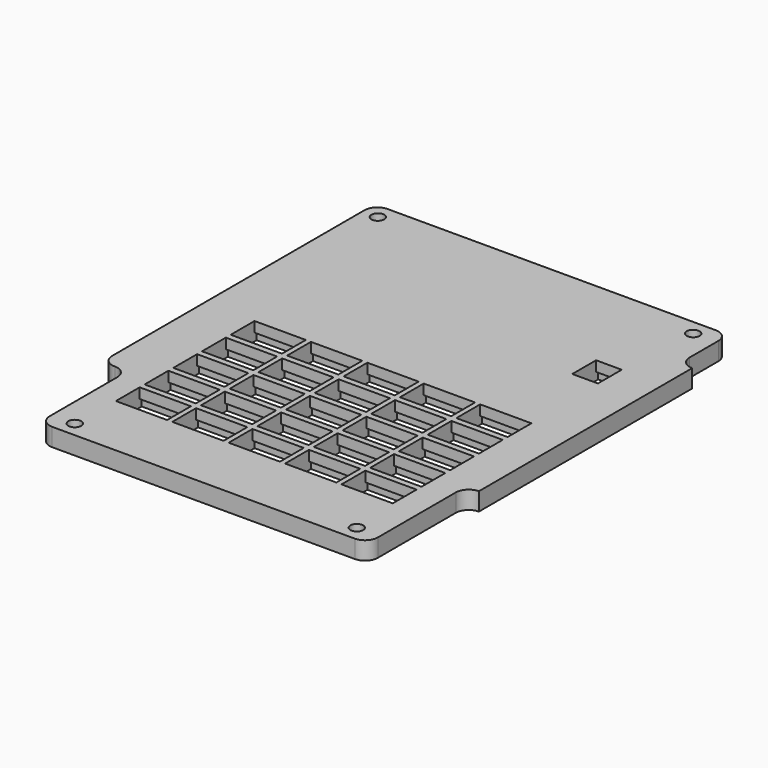
from build123d import *

# Parameters (mm, degrees)
PAD014_DEPTH                         = 3.5
SKETCH027_R                          = 1.25
POCKET012_DEPTH                      = 0.001
POCKET012_DEPTH_BACK                 = 3.501
SKETCH028_W                          = 10
SKETCH028_H                          = 5.8
POCKET013_DEPTH                      = 226.879822
POCKET013_DEPTH_BACK                 = 230.379822
SKETCH030_W                          = 10
SKETCH030_H                          = 6.8
POCKET015_DEPTH                      = 1.5
SKETCH028_LINEARPATTERN_2_W          = 10
SKETCH028_LINEARPATTERN_2_H          = 5.8
POCKET013_LINEARPATTERN_2_DEPTH      = 226.879822
POCKET013_LINEARPATTERN_2_DEPTH_BACK = 230.379822
SKETCH030_LINEARPATTERN_2_W          = 10
SKETCH030_LINEARPATTERN_2_H          = 6.8
POCKET015_LINEARPATTERN_2_DEPTH      = 1.5
SKETCH028_LINEARPATTERN_3_W          = 10
SKETCH028_LINEARPATTERN_3_H          = 5.8
POCKET013_LINEARPATTERN_3_DEPTH      = 226.879822
POCKET013_LINEARPATTERN_3_DEPTH_BACK = 230.379822
SKETCH030_LINEARPATTERN_3_W          = 10
SKETCH030_LINEARPATTERN_3_H          = 6.8
POCKET015_LINEARPATTERN_3_DEPTH      = 1.5
SKETCH028_LINEARPATTERN_4_W          = 10
SKETCH028_LINEARPATTERN_4_H          = 5.8
POCKET013_LINEARPATTERN_4_DEPTH      = 226.879822
POCKET013_LINEARPATTERN_4_DEPTH_BACK = 230.379822
SKETCH030_LINEARPATTERN_4_W          = 10
SKETCH030_LINEARPATTERN_4_H          = 6.8
POCKET015_LINEARPATTERN_4_DEPTH      = 1.5
SKETCH028_LINEARPATTERN_5_W          = 10
SKETCH028_LINEARPATTERN_5_H          = 5.8
POCKET013_LINEARPATTERN_5_DEPTH      = 226.879822
POCKET013_LINEARPATTERN_5_DEPTH_BACK = 230.379822
SKETCH030_LINEARPATTERN_5_W          = 10
SKETCH030_LINEARPATTERN_5_H          = 6.8
POCKET015_LINEARPATTERN_5_DEPTH      = 1.5
LINEARPATTERN001_COUNT               = 5
LINEARPATTERN001_PITCH               = 7
SKETCH029_W                          = 33
SKETCH029_H                          = 15
POCKET014_DEPTH                      = 1.5
SKETCH031_W                          = 5
SKETCH031_H                          = 5.8
POCKET018_DEPTH                      = 0.001
POCKET018_DEPTH_BACK                 = 3.501
SKETCH034_W                          = 5
SKETCH034_H                          = 6.8
POCKET019_DEPTH                      = 1.5
SKETCH043_W                          = 2
SKETCH043_H                          = 40
SKETCH043_W_2                        = 1.2
SKETCH043_H_2                        = 11.2
POCKET022_DEPTH                      = 2


with BuildPart() as part:
    # Sketch026 → Pad014 (new body)
    with BuildSketch(Plane.XY):
        with BuildLine():
            Line((-29.5, -64), (29.5, -64))
            ThreePointArc((29.5, -64), (31.267767, -63.267767), (32, -61.5))
            Line((32, -42.5), (32, -61.5))
            ThreePointArc((34.5, -40), (32.732233, -40.732233), (32, -42.5))
            Line((34.5, 12), (34.5, -40))
            ThreePointArc((32, 14.5), (32.732233, 12.732233), (34.5, 12))
            Line((32, 21.5), (32, 14.5))
            ThreePointArc((32, 21.5), (31.267767, 23.267767), (29.5, 24))
            Line((29.5, 24), (-34.5, 24))
            ThreePointArc((-34.5, 24), (-36.267767, 23.267767), (-37, 21.5))
            Line((-37, 21.5), (-37, -40))
            ThreePointArc((-37, -40), (-36.267767, -41.767767), (-34.5, -42.5))
            ThreePointArc((-32, -45), (-32.732233, -43.232233), (-34.5, -42.5))
            Line((-32, -45), (-32, -61.5))
            ThreePointArc((-32, -61.5), (-31.267767, -63.267767), (-29.5, -64))
        make_face()
    extrude(amount=PAD014_DEPTH)

    # Sketch027 → Pocket012 (cut, two sides)
    with BuildSketch(Plane.XY) as pocket012_sk:
        with Locations((-34, 21)):
            Circle(SKETCH027_R)
        with Locations((27.5, 21)):
            Circle(SKETCH027_R)
        with Locations((27.5, -61)):
            Circle(SKETCH027_R)
        with Locations((-27.5, -61)):
            Circle(SKETCH027_R)
    extrude(amount=-POCKET012_DEPTH, mode=Mode.SUBTRACT)
    extrude(pocket012_sk.sketch, amount=POCKET012_DEPTH_BACK, mode=Mode.SUBTRACT)

    # Sketch028 → Pocket013 (cut, two sides)
    with BuildSketch(Plane.XY) as pocket013_sk:
        with Locations((-22.25, -20.4)):
            Rectangle(SKETCH028_W, SKETCH028_H)
    pocket013 = extrude(amount=-POCKET013_DEPTH, mode=Mode.SUBTRACT) + extrude(pocket013_sk.sketch, amount=POCKET013_DEPTH_BACK, mode=Mode.SUBTRACT)

    # Sketch030 → Pocket015 (cut)
    with BuildSketch(Plane.XY):
        with Locations((-22.25, -20.4)):
            Rectangle(SKETCH030_W, SKETCH030_H)
    pocket015 = extrude(amount=POCKET015_DEPTH, mode=Mode.SUBTRACT)

    # Sketch028 LinearPattern 2 → Pocket013 LinearPattern 2 (cut, two sides)
    with BuildSketch(Plane(origin=(11, 0, 0), x_dir=(1, 0, 0), z_dir=(0, 0, 1))) as pocket013_linearpattern_2_sk:
        with Locations((-22.25, -20.4)):
            Rectangle(SKETCH028_LINEARPATTERN_2_W, SKETCH028_LINEARPATTERN_2_H)
    pocket013_linearpattern_2 = extrude(amount=-POCKET013_LINEARPATTERN_2_DEPTH, mode=Mode.SUBTRACT) + extrude(pocket013_linearpattern_2_sk.sketch, amount=POCKET013_LINEARPATTERN_2_DEPTH_BACK, mode=Mode.SUBTRACT)

    # Sketch030 LinearPattern 2 → Pocket015 LinearPattern 2 (cut)
    with BuildSketch(Plane(origin=(11, 0, 0), x_dir=(1, 0, 0), z_dir=(0, 0, 1))):
        with Locations((-22.25, -20.4)):
            Rectangle(SKETCH030_LINEARPATTERN_2_W, SKETCH030_LINEARPATTERN_2_H)
    pocket015_linearpattern_2 = extrude(amount=POCKET015_LINEARPATTERN_2_DEPTH, mode=Mode.SUBTRACT)

    # Sketch028 LinearPattern 3 → Pocket013 LinearPattern 3 (cut, two sides)
    with BuildSketch(Plane(origin=(22, 0, 0), x_dir=(1, 0, 0), z_dir=(0, 0, 1))) as pocket013_linearpattern_3_sk:
        with Locations((-22.25, -20.4)):
            Rectangle(SKETCH028_LINEARPATTERN_3_W, SKETCH028_LINEARPATTERN_3_H)
    pocket013_linearpattern_3 = extrude(amount=-POCKET013_LINEARPATTERN_3_DEPTH, mode=Mode.SUBTRACT) + extrude(pocket013_linearpattern_3_sk.sketch, amount=POCKET013_LINEARPATTERN_3_DEPTH_BACK, mode=Mode.SUBTRACT)

    # Sketch030 LinearPattern 3 → Pocket015 LinearPattern 3 (cut)
    with BuildSketch(Plane(origin=(22, 0, 0), x_dir=(1, 0, 0), z_dir=(0, 0, 1))):
        with Locations((-22.25, -20.4)):
            Rectangle(SKETCH030_LINEARPATTERN_3_W, SKETCH030_LINEARPATTERN_3_H)
    pocket015_linearpattern_3 = extrude(amount=POCKET015_LINEARPATTERN_3_DEPTH, mode=Mode.SUBTRACT)

    # Sketch028 LinearPattern 4 → Pocket013 LinearPattern 4 (cut, two sides)
    with BuildSketch(Plane(origin=(33, 0, 0), x_dir=(1, 0, 0), z_dir=(0, 0, 1))) as pocket013_linearpattern_4_sk:
        with Locations((-22.25, -20.4)):
            Rectangle(SKETCH028_LINEARPATTERN_4_W, SKETCH028_LINEARPATTERN_4_H)
    pocket013_linearpattern_4 = extrude(amount=-POCKET013_LINEARPATTERN_4_DEPTH, mode=Mode.SUBTRACT) + extrude(pocket013_linearpattern_4_sk.sketch, amount=POCKET013_LINEARPATTERN_4_DEPTH_BACK, mode=Mode.SUBTRACT)

    # Sketch030 LinearPattern 4 → Pocket015 LinearPattern 4 (cut)
    with BuildSketch(Plane(origin=(33, 0, 0), x_dir=(1, 0, 0), z_dir=(0, 0, 1))):
        with Locations((-22.25, -20.4)):
            Rectangle(SKETCH030_LINEARPATTERN_4_W, SKETCH030_LINEARPATTERN_4_H)
    pocket015_linearpattern_4 = extrude(amount=POCKET015_LINEARPATTERN_4_DEPTH, mode=Mode.SUBTRACT)

    # Sketch028 LinearPattern 5 → Pocket013 LinearPattern 5 (cut, two sides)
    with BuildSketch(Plane(origin=(44, 0, 0), x_dir=(1, 0, 0), z_dir=(0, 0, 1))) as pocket013_linearpattern_5_sk:
        with Locations((-22.25, -20.4)):
            Rectangle(SKETCH028_LINEARPATTERN_5_W, SKETCH028_LINEARPATTERN_5_H)
    pocket013_linearpattern_5 = extrude(amount=-POCKET013_LINEARPATTERN_5_DEPTH, mode=Mode.SUBTRACT) + extrude(pocket013_linearpattern_5_sk.sketch, amount=POCKET013_LINEARPATTERN_5_DEPTH_BACK, mode=Mode.SUBTRACT)

    # Sketch030 LinearPattern 5 → Pocket015 LinearPattern 5 (cut)
    with BuildSketch(Plane(origin=(44, 0, 0), x_dir=(1, 0, 0), z_dir=(0, 0, 1))):
        with Locations((-22.25, -20.4)):
            Rectangle(SKETCH030_LINEARPATTERN_5_W, SKETCH030_LINEARPATTERN_5_H)
    pocket015_linearpattern_5 = extrude(amount=POCKET015_LINEARPATTERN_5_DEPTH, mode=Mode.SUBTRACT)

    # LinearPattern001: Pocket013, Pocket015, Pocket013 LinearPattern 2, Pocket015 LinearPattern 2, Pocket013 LinearPattern 3, Pocket015 LinearPattern 3, Pocket013 LinearPattern 4, Pocket015 LinearPattern 4, Pocket013 LinearPattern 5, Pocket015 LinearPattern 5 ×5
    with Locations(*[(0, -i * LINEARPATTERN001_PITCH, 0) for i in range(1, LINEARPATTERN001_COUNT)]):
        add(pocket013, mode=Mode.SUBTRACT)
        add(pocket015, mode=Mode.SUBTRACT)
        add(pocket013_linearpattern_2, mode=Mode.SUBTRACT)
        add(pocket015_linearpattern_2, mode=Mode.SUBTRACT)
        add(pocket013_linearpattern_3, mode=Mode.SUBTRACT)
        add(pocket015_linearpattern_3, mode=Mode.SUBTRACT)
        add(pocket013_linearpattern_4, mode=Mode.SUBTRACT)
        add(pocket015_linearpattern_4, mode=Mode.SUBTRACT)
        add(pocket013_linearpattern_5, mode=Mode.SUBTRACT)
        add(pocket015_linearpattern_5, mode=Mode.SUBTRACT)

    # Sketch029 → Pocket014 (cut)
    with BuildSketch(Plane.XY):
        with Locations((0, -7.5)):
            Rectangle(SKETCH029_W, SKETCH029_H)
    extrude(amount=POCKET014_DEPTH, mode=Mode.SUBTRACT)

    # Sketch031 → Pocket018 (cut, two sides)
    with BuildSketch(Plane.XY) as pocket018_sk:
        with Locations((23.95, 1.9814)):
            Rectangle(SKETCH031_W, SKETCH031_H)
    extrude(amount=-POCKET018_DEPTH, mode=Mode.SUBTRACT)
    extrude(pocket018_sk.sketch, amount=POCKET018_DEPTH_BACK, mode=Mode.SUBTRACT)

    # Sketch034 → Pocket019 (cut)
    with BuildSketch(Plane.XY):
        with Locations((23.95, 1.9814)):
            Rectangle(SKETCH034_W, SKETCH034_H)
    extrude(amount=POCKET019_DEPTH, mode=Mode.SUBTRACT)

    # Sketch043 → Pocket022 (cut)
    with BuildSketch(Plane.XY):
        with Locations((-34.5, -7.5)):
            Rectangle(SKETCH043_W, SKETCH043_H)
        with Locations((32.7, -4.9)):
            Rectangle(SKETCH043_W_2, SKETCH043_H_2)
    extrude(amount=POCKET022_DEPTH, mode=Mode.SUBTRACT)


with BuildPart() as part_1:
    # Body003 placement: moved
    add(part.part.moved(Location((0, 0, 6))))


solid = part_1.part
